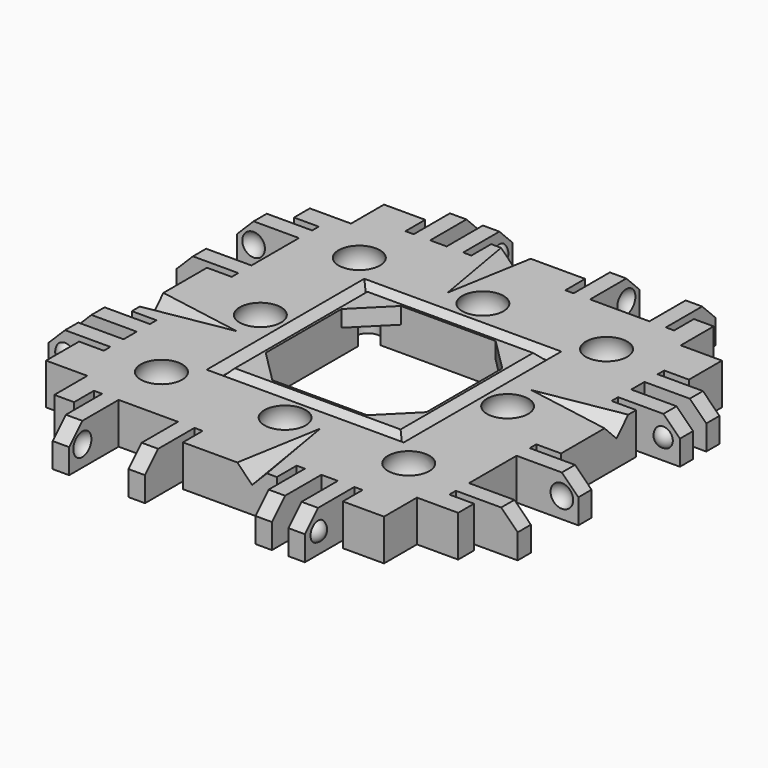
from build123d import *

# Parameters (mm, degrees)
CYLINDER037_R          = 1.5
CYLINDER037_DEPTH      = 4
CYLINDER036_R          = 1.5
CYLINDER036_DEPTH      = 4
CYLINDER035_R          = 1.5
CYLINDER035_DEPTH      = 4
CYLINDER034_R          = 1.5
CYLINDER034_DEPTH      = 4
CYLINDER032_R          = 1.7
CYLINDER032_DEPTH      = 10
CYLINDER033_R          = 1.7
CYLINDER033_DEPTH      = 10
CYLINDER031_R          = 1.7
CYLINDER031_DEPTH      = 10
CYLINDER030_R          = 1.7
CYLINDER030_DEPTH      = 10
CYLINDER029_R          = 1.7
CYLINDER029_DEPTH      = 10
BOX208_W               = 10
BOX208_H               = 15
BOX208_DEPTH           = 10
BOX208_ROLL_ANGLE      = 14.001942
BOX208_PITCH_ANGLE     = -44.136029
BOX208_PLACEMENT_ANGLE = -99.851076
BOX207_W               = 10
BOX207_H               = 15
BOX207_DEPTH           = 10
BOX207_ROLL_ANGLE      = 14.001942
BOX207_PITCH_ANGLE     = -44.136029
BOX207_PLACEMENT_ANGLE = 170.148924
BOX206_W               = 10
BOX206_H               = 15
BOX206_DEPTH           = 10
BOX206_ROLL_ANGLE      = 14.001942
BOX206_PITCH_ANGLE     = -44.136029
BOX206_PLACEMENT_ANGLE = 80.148924
BOX086_W               = 10
BOX086_H               = 15
BOX086_DEPTH           = 10
BOX086_ROLL_ANGLE      = 14.001942
BOX086_PITCH_ANGLE     = -44.136029
BOX086_PLACEMENT_ANGLE = -9.851076
BOX085_W               = 19.5
BOX085_H               = 19.5
BOX085_DEPTH           = 15
BOX076_W               = 19.5
BOX076_H               = 19.5
BOX076_DEPTH           = 15
CHAMFER008_SIZE        = 4
CYLINDER025_R          = 1.7
CYLINDER025_DEPTH      = 10
CYLINDER026_R          = 1.7
CYLINDER026_DEPTH      = 10
CYLINDER024_R          = 1.7
CYLINDER024_DEPTH      = 10
BOX169_W               = 13
BOX169_H               = 40
BOX169_DEPTH           = 10
BOX169_PLACEMENT_ANGLE = 45
BOX177_W               = 12
BOX177_H               = 44
BOX177_DEPTH           = 10
BOX176_W               = 20
BOX176_H               = 44
BOX176_DEPTH           = 10
BOX172_W               = 4
BOX172_H               = 1
BOX172_DEPTH           = 7
BOX174_W               = 4
BOX174_H               = 1
BOX174_DEPTH           = 7
BOX171_W               = 4
BOX171_H               = 2
BOX171_DEPTH           = 7
BOX173_W               = 4
BOX173_H               = 1
BOX173_DEPTH           = 7
BOX170_W               = 4
BOX170_H               = 1
BOX170_DEPTH           = 7
BOX175_W               = 4
BOX175_H               = 7.2
BOX175_DEPTH           = 7
BOX165_W               = 10
BOX165_H               = 2
BOX165_DEPTH           = 7
BOX166_W               = 10
BOX166_H               = 2
BOX166_DEPTH           = 7
BOX167_W               = 10
BOX167_H               = 2
BOX167_DEPTH           = 7
BOX168_W               = 10
BOX168_H               = 2
BOX168_DEPTH           = 7
BOX164_W               = 5
BOX164_H               = 40
BOX164_DEPTH           = 7
CUT069_PLACEMENT_ANGLE = 90
BOX191_W               = 13
BOX191_H               = 40
BOX191_DEPTH           = 10
BOX191_PLACEMENT_ANGLE = 45
BOX187_W               = 12
BOX187_H               = 44
BOX187_DEPTH           = 10
BOX180_W               = 20
BOX180_H               = 44
BOX180_DEPTH           = 10
BOX182_W               = 4
BOX182_H               = 1
BOX182_DEPTH           = 7
BOX184_W               = 4
BOX184_H               = 1
BOX184_DEPTH           = 7
BOX186_W               = 4
BOX186_H               = 2
BOX186_DEPTH           = 7
BOX185_W               = 4
BOX185_H               = 1
BOX185_DEPTH           = 7
BOX189_W               = 4
BOX189_H               = 1
BOX189_DEPTH           = 7
BOX181_W               = 4
BOX181_H               = 7.2
BOX181_DEPTH           = 7
BOX190_W               = 10
BOX190_H               = 2
BOX190_DEPTH           = 7
BOX179_W               = 10
BOX179_H               = 2
BOX179_DEPTH           = 7
BOX183_W               = 10
BOX183_H               = 2
BOX183_DEPTH           = 7
BOX188_W               = 10
BOX188_H               = 2
BOX188_DEPTH           = 7
BOX178_W               = 5
BOX178_H               = 40
BOX178_DEPTH           = 7
CUT074_PLACEMENT_ANGLE = 180
BOX193_W               = 13
BOX193_H               = 40
BOX193_DEPTH           = 10
BOX193_PLACEMENT_ANGLE = 45
BOX203_W               = 12
BOX203_H               = 44
BOX203_DEPTH           = 10
BOX194_W               = 20
BOX194_H               = 44
BOX194_DEPTH           = 10
BOX198_W               = 4
BOX198_H               = 1
BOX198_DEPTH           = 7
BOX204_W               = 4
BOX204_H               = 1
BOX204_DEPTH           = 7
BOX201_W               = 4
BOX201_H               = 2
BOX201_DEPTH           = 7
BOX200_W               = 4
BOX200_H               = 1
BOX200_DEPTH           = 7
BOX197_W               = 4
BOX197_H               = 1
BOX197_DEPTH           = 7
BOX199_W               = 4
BOX199_H               = 7.2
BOX199_DEPTH           = 7
BOX192_W               = 10
BOX192_H               = 2
BOX192_DEPTH           = 7
BOX195_W               = 10
BOX195_H               = 2
BOX195_DEPTH           = 7
BOX202_W               = 10
BOX202_H               = 2
BOX202_DEPTH           = 7
BOX205_W               = 10
BOX205_H               = 2
BOX205_DEPTH           = 7
BOX196_W               = 5
BOX196_H               = 40
BOX196_DEPTH           = 7
CUT079_PLACEMENT_ANGLE = 90
BOX006_W               = 13
BOX006_H               = 40
BOX006_DEPTH           = 10
BOX006_PLACEMENT_ANGLE = 45
BOX149_W               = 12
BOX149_H               = 44
BOX149_DEPTH           = 10
BOX013_W               = 20
BOX013_H               = 44
BOX013_DEPTH           = 10
BOX009_W               = 4
BOX009_H               = 1
BOX009_DEPTH           = 7
BOX011_W               = 4
BOX011_H               = 1
BOX011_DEPTH           = 7
BOX008_W               = 4
BOX008_H               = 2
BOX008_DEPTH           = 7
BOX010_W               = 4
BOX010_H               = 1
BOX010_DEPTH           = 7
BOX007_W               = 4
BOX007_H               = 1
BOX007_DEPTH           = 7
BOX012_W               = 4
BOX012_H               = 7.2
BOX012_DEPTH           = 7
BOX002_W               = 10
BOX002_H               = 2
BOX002_DEPTH           = 7
BOX003_W               = 10
BOX003_H               = 2
BOX003_DEPTH           = 7
BOX004_W               = 10
BOX004_H               = 2
BOX004_DEPTH           = 7
BOX005_W               = 10
BOX005_H               = 2
BOX005_DEPTH           = 7
BOX001_W               = 5
BOX001_H               = 40
BOX001_DEPTH           = 7
BOX084_W               = 20
BOX084_H               = 20
BOX084_DEPTH           = 14
BOX083_W               = 24
BOX083_H               = 24
BOX083_DEPTH           = 10
CHAMFER007_SIZE        = 0.95
BOX_W                  = 40
BOX_H                  = 40
BOX_DEPTH              = 5


with BuildPart() as cylinder037:
    # Cylinder037 → Cylinder037 (new body)
    with BuildSketch(Plane(origin=(9.75, -9.75, -3), x_dir=(1, 0, 0), z_dir=(0, 0, 1))):
        Circle(CYLINDER037_R)
    extrude(amount=CYLINDER037_DEPTH)


with BuildPart() as cylinder036:
    # Cylinder036 → Cylinder036 (new body)
    with BuildSketch(Plane(origin=(-9.75, 9.75, -3), x_dir=(1, 0, 0), z_dir=(0, 0, 1))):
        Circle(CYLINDER036_R)
    extrude(amount=CYLINDER036_DEPTH)


with BuildPart() as cylinder035:
    # Cylinder035 → Cylinder035 (new body)
    with BuildSketch(Plane(origin=(9.75, 9.75, -3), x_dir=(1, 0, 0), z_dir=(0, 0, 1))):
        Circle(CYLINDER035_R)
    extrude(amount=CYLINDER035_DEPTH)


with BuildPart() as fusion103008:
    # Cylinder034 → Cylinder034 (new body)
    with BuildSketch(Plane(origin=(-9.75, -9.75, -3), x_dir=(1, 0, 0), z_dir=(0, 0, 1))):
        Circle(CYLINDER034_R)
    extrude(amount=CYLINDER034_DEPTH)

    # Fusion103008: union Cylinder037, Cylinder036, Cylinder035
    add(cylinder037.part)
    add(cylinder036.part)
    add(cylinder035.part)


with BuildPart() as sphere087:
    # Sphere087 → Sphere087 (revolve)
    with BuildSketch(Plane(origin=(-15, 0, 1.7), x_dir=(-1, 0, 0), z_dir=(0, 1, 0))):
        with BuildLine():
            ThreePointArc((0, -2.825), (2.825, 0), (0, 2.825))
            Line((0, 2.825), (0, -2.825))
        make_face()
    revolve(axis=Axis((-15, 0, 1.7), (0, 0, 1)))


with BuildPart() as mag_hole001:
    # Sphere084 → Sphere084 (revolve)
    with BuildSketch(Plane(origin=(15, -15, 1.7), x_dir=(0, 1, 0), z_dir=(1, 0, 0))):
        with BuildLine():
            ThreePointArc((0, -2.83), (2.83, 0), (0, 2.83))
            Line((0, 2.83), (0, -2.83))
        make_face()
    revolve(axis=Axis((15, -15, 1.7), (0, 0, 1)))


with BuildPart() as sphere086:
    # Sphere086 → Sphere086 (revolve)
    with BuildSketch(Plane(origin=(0, 15, 1.7), x_dir=(0, 1, 0), z_dir=(1, 0, 0))):
        with BuildLine():
            ThreePointArc((0, -2.825), (2.825, 0), (0, 2.825))
            Line((0, 2.825), (0, -2.825))
        make_face()
    revolve(axis=Axis((0, 15, 1.7), (0, 0, 1)))


with BuildPart() as sphere088:
    # Sphere088 → Sphere088 (revolve)
    with BuildSketch(Plane(origin=(0, -15, 1.7), x_dir=(0, -1, 0), z_dir=(-1, 0, 0))):
        with BuildLine():
            ThreePointArc((0, -2.825), (2.825, 0), (0, 2.825))
            Line((0, 2.825), (0, -2.825))
        make_face()
    revolve(axis=Axis((0, -15, 1.7), (0, 0, 1)))


with BuildPart() as cylinder032:
    # Cylinder032 → Cylinder032 (new body)
    with BuildSketch(Plane(origin=(-15, 0, -5), x_dir=(-1, 0, 0), z_dir=(0, 0, 1))):
        Circle(CYLINDER032_R)
    extrude(amount=CYLINDER032_DEPTH)


with BuildPart() as cylinder033:
    # Cylinder033 → Cylinder033 (new body)
    with BuildSketch(Plane(origin=(0, -15, -5), x_dir=(0, -1, 0), z_dir=(0, 0, 1))):
        Circle(CYLINDER033_R)
    extrude(amount=CYLINDER033_DEPTH)


with BuildPart() as mag_hole002:
    # Sphere085 → Sphere085 (revolve)
    with BuildSketch(Plane(origin=(15, 15, 1.7), x_dir=(-1, 0, 0), z_dir=(0, 1, 0))):
        with BuildLine():
            ThreePointArc((0, -2.83), (2.83, 0), (0, 2.83))
            Line((0, 2.83), (0, -2.83))
        make_face()
    revolve(axis=Axis((15, 15, 1.7), (0, 0, 1)))


with BuildPart() as cylinder031:
    # Cylinder031 → Cylinder031 (new body)
    with BuildSketch(Plane(origin=(0, 15, -5), x_dir=(0, 1, 0), z_dir=(0, 0, 1))):
        Circle(CYLINDER031_R)
    extrude(amount=CYLINDER031_DEPTH)


with BuildPart() as cylinder030:
    # Cylinder030 → Cylinder030 (new body)
    with BuildSketch(Plane(origin=(15, 15, -5), x_dir=(-1, 0, 0), z_dir=(0, 0, 1))):
        Circle(CYLINDER030_R)
    extrude(amount=CYLINDER030_DEPTH)


with BuildPart() as fusion103007:
    # Cylinder029 → Cylinder029 (new body)
    with BuildSketch(Plane(origin=(15, -15, -5), x_dir=(0, 1, 0), z_dir=(0, 0, 1))):
        Circle(CYLINDER029_R)
    extrude(amount=CYLINDER029_DEPTH)

    # Fusion103007: union Sphere087, Mag Hole001, Sphere086, Sphere088, Cylinder032, Cylinder033, Mag Hole002, Cylinder031, Cylinder030
    add(sphere087.part)
    add(mag_hole001.part)
    add(sphere086.part)
    add(sphere088.part)
    add(cylinder032.part)
    add(cylinder033.part)
    add(mag_hole002.part)
    add(cylinder031.part)
    add(cylinder030.part)


with BuildPart() as cube179:
    # Box208 → Box208 (new body)
    with BuildSketch(Plane.XY):
        with Locations((5, 7.5)):
            Rectangle(BOX208_W, BOX208_H)
    extrude(amount=BOX208_DEPTH)


with BuildPart() as cube179_1:
    # Box208 roll: moved
    add(cube179.part.rotate(Axis((0, 0, 0), (1, 0, 0)), BOX208_ROLL_ANGLE))


with BuildPart() as cube179_2:
    # Box208 pitch: moved
    add(cube179_1.part.rotate(Axis((0, 0, 0), (0, 1, 0)), BOX208_PITCH_ANGLE))


with BuildPart() as cube179_3:
    # Box208 placement: moved
    add(cube179_2.part.moved(Location((-26, -4, 1))).rotate(Axis((-26, -4, 1), (0, 0, 1)), BOX208_PLACEMENT_ANGLE))


with BuildPart() as cube178:
    # Box207 → Box207 (new body)
    with BuildSketch(Plane.XY):
        with Locations((5, 7.5)):
            Rectangle(BOX207_W, BOX207_H)
    extrude(amount=BOX207_DEPTH)


with BuildPart() as cube178_1:
    # Box207 roll: moved
    add(cube178.part.rotate(Axis((0, 0, 0), (1, 0, 0)), BOX207_ROLL_ANGLE))


with BuildPart() as cube178_2:
    # Box207 pitch: moved
    add(cube178_1.part.rotate(Axis((0, 0, 0), (0, 1, 0)), BOX207_PITCH_ANGLE))


with BuildPart() as cube178_3:
    # Box207 placement: moved
    add(cube178_2.part.moved(Location((-4, 26, 1))).rotate(Axis((-4, 26, 1), (0, 0, 1)), BOX207_PLACEMENT_ANGLE))


with BuildPart() as cube177:
    # Box206 → Box206 (new body)
    with BuildSketch(Plane.XY):
        with Locations((5, 7.5)):
            Rectangle(BOX206_W, BOX206_H)
    extrude(amount=BOX206_DEPTH)


with BuildPart() as cube177_1:
    # Box206 roll: moved
    add(cube177.part.rotate(Axis((0, 0, 0), (1, 0, 0)), BOX206_ROLL_ANGLE))


with BuildPart() as cube177_2:
    # Box206 pitch: moved
    add(cube177_1.part.rotate(Axis((0, 0, 0), (0, 1, 0)), BOX206_PITCH_ANGLE))


with BuildPart() as cube177_3:
    # Box206 placement: moved
    add(cube177_2.part.moved(Location((26, 4, 1))).rotate(Axis((26, 4, 1), (0, 0, 1)), BOX206_PLACEMENT_ANGLE))


with BuildPart() as glue_dents:
    # Box086 → Box086 (new body)
    with BuildSketch(Plane.XY):
        with Locations((5, 7.5)):
            Rectangle(BOX086_W, BOX086_H)
    extrude(amount=BOX086_DEPTH)


with BuildPart() as glue_dents_1:
    # Box086 roll: moved
    add(glue_dents.part.rotate(Axis((0, 0, 0), (1, 0, 0)), BOX086_ROLL_ANGLE))


with BuildPart() as glue_dents_2:
    # Box086 pitch: moved
    add(glue_dents_1.part.rotate(Axis((0, 0, 0), (0, 1, 0)), BOX086_PITCH_ANGLE))


with BuildPart() as glue_dents_3:
    # Box086 placement: moved
    add(glue_dents_2.part.moved(Location((4, -26, 1))).rotate(Axis((4, -26, 1), (0, 0, 1)), BOX086_PLACEMENT_ANGLE))

    # Fusion078: union Cube179, Cube178, Cube177
    add(cube179_3.part)
    add(cube178_3.part)
    add(cube177_3.part)


with BuildPart() as cube069:
    # Box085 → Box085 (new body)
    with BuildSketch(Plane(origin=(-9.75, -9.75, -14), x_dir=(1, 0, 0), z_dir=(0, 0, 1))):
        with Locations((9.75, 9.75)):
            Rectangle(BOX085_W, BOX085_H)
    extrude(amount=BOX085_DEPTH)


with BuildPart() as obj1:
    # Box076 → Box076 (new body)
    with BuildSketch(Plane(origin=(-9.75, -9.75, -3), x_dir=(1, 0, 0), z_dir=(0, 0, 1))):
        with Locations((9.75, 9.75)):
            Rectangle(BOX076_W, BOX076_H)
    extrude(amount=BOX076_DEPTH)

    # Chamfer008
    chamfer008_edges = [obj1.edges().sort_by_distance(p)[0] for p in [
        (-9.75, -9.75, 4.5),
        (-9.75, 9.75, 4.5),
        (9.75, -9.75, 4.5),
        (9.75, 9.75, 4.5),
    ]]
    chamfer(chamfer008_edges, length=CHAMFER008_SIZE)


with BuildPart() as cylinder025:
    # Cylinder025 → Cylinder025 (new body)
    with BuildSketch(Plane(origin=(15, 0, -5), x_dir=(1, 0, 0), z_dir=(0, 0, 1))):
        Circle(CYLINDER025_R)
    extrude(amount=CYLINDER025_DEPTH)


with BuildPart() as cylinder026:
    # Cylinder026 → Cylinder026 (new body)
    with BuildSketch(Plane(origin=(-15, 15, -5), x_dir=(1, 0, 0), z_dir=(0, 0, 1))):
        Circle(CYLINDER026_R)
    extrude(amount=CYLINDER026_DEPTH)


with BuildPart() as screw_holes_to_remove_ball_mags:
    # Cylinder024 → Cylinder024 (new body)
    with BuildSketch(Plane(origin=(-15, -15, -5), x_dir=(1, 0, 0), z_dir=(0, 0, 1))):
        Circle(CYLINDER024_R)
    extrude(amount=CYLINDER024_DEPTH)

    # Fusion052: union Cylinder025, Cylinder026
    add(cylinder025.part)
    add(cylinder026.part)


with BuildPart() as chamfer_cube002:
    # Box169 → Box169 (new body)
    with BuildSketch(Plane.XY):
        with Locations((6.5, 20)):
            Rectangle(BOX169_W, BOX169_H)
    extrude(amount=BOX169_DEPTH)


with BuildPart() as chamfer_cube002_1:
    # Box169 placement: moved
    add(chamfer_cube002.part.moved(Location((-11.69, 0, -1.19))).rotate(Axis((-11.69, 0, -1.19), (0, -1, 0)), BOX169_PLACEMENT_ANGLE))


with BuildPart() as re_level_edge_clip_block005:
    # Box177 → Box177 (new body)
    with BuildSketch(Plane(origin=(-21.5, -2, -7), x_dir=(1, 0, 0), z_dir=(0, 0, 1))):
        with Locations((6, 22)):
            Rectangle(BOX177_W, BOX177_H)
    extrude(amount=BOX177_DEPTH)


with BuildPart() as re_level_edge_clip_block004:
    # Box176 → Box176 (new body)
    with BuildSketch(Plane(origin=(-19, -2, 3), x_dir=(1, 0, 0), z_dir=(0, 0, 1))):
        with Locations((10, 22)):
            Rectangle(BOX176_W, BOX176_H)
    extrude(amount=BOX176_DEPTH)


with BuildPart() as cube151:
    # Box172 → Box172 (new body)
    with BuildSketch(Plane(origin=(-6, 12, -2), x_dir=(1, 0, 0), z_dir=(0, 0, 1))):
        with Locations((2, 0.5)):
            Rectangle(BOX172_W, BOX172_H)
    extrude(amount=BOX172_DEPTH)


with BuildPart() as cube153:
    # Box174 → Box174 (new body)
    with BuildSketch(Plane(origin=(-6, 36.6, -2), x_dir=(1, 0, 0), z_dir=(0, 0, 1))):
        with Locations((2, 0.5)):
            Rectangle(BOX174_W, BOX174_H)
    extrude(amount=BOX174_DEPTH)


with BuildPart() as cube150:
    # Box171 → Box171 (new body)
    with BuildSketch(Plane(origin=(-6, 8, -2), x_dir=(1, 0, 0), z_dir=(0, 0, 1))):
        with Locations((2, 1)):
            Rectangle(BOX171_W, BOX171_H)
    extrude(amount=BOX171_DEPTH)


with BuildPart() as cube152:
    # Box173 → Box173 (new body)
    with BuildSketch(Plane(origin=(-6, 24.4, -2), x_dir=(1, 0, 0), z_dir=(0, 0, 1))):
        with Locations((2, 0.5)):
            Rectangle(BOX173_W, BOX173_H)
    extrude(amount=BOX173_DEPTH)


with BuildPart() as cube149:
    # Box170 → Box170 (new body)
    with BuildSketch(Plane(origin=(-6, 5, -2), x_dir=(1, 0, 0), z_dir=(0, 0, 1))):
        with Locations((2, 0.5)):
            Rectangle(BOX170_W, BOX170_H)
    extrude(amount=BOX170_DEPTH)


with BuildPart() as extra_holes_for_clips002:
    # Box175 → Box175 (new body)
    with BuildSketch(Plane(origin=(-6, 27.4, -2), x_dir=(1, 0, 0), z_dir=(0, 0, 1))):
        with Locations((2, 3.6)):
            Rectangle(BOX175_W, BOX175_H)
    extrude(amount=BOX175_DEPTH)

    # Fusion061: union Cube151, Cube153, Cube150, Cube152, Cube149
    add(cube151.part)
    add(cube153.part)
    add(cube150.part)
    add(cube152.part)
    add(cube149.part)


with BuildPart() as sphere058:
    # Sphere058 → Sphere058 (revolve)
    with BuildSketch(Plane(origin=(-7.5, 34, 0.5), x_dir=(1, 0, 0), z_dir=(0, -1, 0))):
        with BuildLine():
            ThreePointArc((0, -1.5), (1.5, 0), (0, 1.5))
            Line((0, 1.5), (0, -1.5))
        make_face()
    revolve(axis=Axis((-7.5, 34, 0.5), (0, 0, 1)))


with BuildPart() as holes002:
    # Sphere057 → Sphere057 (revolve)
    with BuildSketch(Plane(origin=(-7.5, 28, 0.5), x_dir=(1, 0, 0), z_dir=(0, -1, 0))):
        with BuildLine():
            ThreePointArc((0, -1.5), (1.5, 0), (0, 1.5))
            Line((0, 1.5), (0, -1.5))
        make_face()
    revolve(axis=Axis((-7.5, 28, 0.5), (0, 0, 1)))

    # Fusion063: union Sphere058
    add(sphere058.part)


with BuildPart() as cube145:
    # Box165 → Box165 (new body)
    with BuildSketch(Plane(origin=(-15, 6, -2), x_dir=(1, 0, 0), z_dir=(0, 0, 1))):
        with Locations((5, 1)):
            Rectangle(BOX165_W, BOX165_H)
    extrude(amount=BOX165_DEPTH)


with BuildPart() as cube146:
    # Box166 → Box166 (new body)
    with BuildSketch(Plane(origin=(-15, 10, -2), x_dir=(1, 0, 0), z_dir=(0, 0, 1))):
        with Locations((5, 1)):
            Rectangle(BOX166_W, BOX166_H)
    extrude(amount=BOX166_DEPTH)


with BuildPart() as cube147:
    # Box167 → Box167 (new body)
    with BuildSketch(Plane(origin=(-15, 25.4, -2), x_dir=(1, 0, 0), z_dir=(0, 0, 1))):
        with Locations((5, 1)):
            Rectangle(BOX167_W, BOX167_H)
    extrude(amount=BOX167_DEPTH)


with BuildPart() as cube148:
    # Box168 → Box168 (new body)
    with BuildSketch(Plane(origin=(-15, 34.6, -2), x_dir=(1, 0, 0), z_dir=(0, 0, 1))):
        with Locations((5, 1)):
            Rectangle(BOX168_W, BOX168_H)
    extrude(amount=BOX168_DEPTH)


with BuildPart() as fusion064:
    # Box164 → Box164 (new body)
    with BuildSketch(Plane(origin=(-5, 0, -2), x_dir=(1, 0, 0), z_dir=(0, 0, 1))):
        with Locations((2.5, 20)):
            Rectangle(BOX164_W, BOX164_H)
    extrude(amount=BOX164_DEPTH)

    # Fusion064: union Cube145, Cube146, Cube147, Cube148
    add(cube145.part)
    add(cube146.part)
    add(cube147.part)
    add(cube148.part)


with BuildPart() as sphere056:
    # Sphere056 → Sphere056 (revolve)
    with BuildSketch(Plane(origin=(-7.5, 11.5, 0.5), x_dir=(1, 0, 0), z_dir=(0, -1, 0))):
        with BuildLine():
            ThreePointArc((0, -1.25), (1.25, 0), (0, 1.25))
            Line((0, 1.25), (0, -1.25))
        make_face()
    revolve(axis=Axis((-7.5, 11.5, 0.5), (0, 0, 1)))


with BuildPart() as edge_clips001:
    # Sphere055 → Sphere055 (revolve)
    with BuildSketch(Plane(origin=(-7.5, 6.5, 0.5), x_dir=(1, 0, 0), z_dir=(0, -1, 0))):
        with BuildLine():
            ThreePointArc((0, -1.25), (1.25, 0), (0, 1.25))
            Line((0, 1.25), (0, -1.25))
        make_face()
    revolve(axis=Axis((-7.5, 6.5, 0.5), (0, 0, 1)))

    # Fusion062: union Sphere056
    add(sphere056.part)

    # Fusion065: union Fusion064
    add(fusion064.part)

    # Cut065: cut Holes002
    add(holes002.part, mode=Mode.SUBTRACT)

    # Cut066: cut Extra Holes for Clips002
    add(extra_holes_for_clips002.part, mode=Mode.SUBTRACT)

    # Cut067: cut Re-level Edge Clip Block004
    add(re_level_edge_clip_block004.part, mode=Mode.SUBTRACT)

    # Cut068: cut Re-level Edge Clip Block005
    add(re_level_edge_clip_block005.part, mode=Mode.SUBTRACT)

    # Cut069: cut Chamfer Cube002
    add(chamfer_cube002_1.part, mode=Mode.SUBTRACT)


with BuildPart() as edge_clips001_1:
    # Cut069 placement: moved
    add(edge_clips001.part.moved(Location((20, -20, 0))).rotate(Axis((20, -20, 0), (0, 0, 1)), CUT069_PLACEMENT_ANGLE))


with BuildPart() as chamfer_cube003:
    # Box191 → Box191 (new body)
    with BuildSketch(Plane.XY):
        with Locations((6.5, 20)):
            Rectangle(BOX191_W, BOX191_H)
    extrude(amount=BOX191_DEPTH)


with BuildPart() as chamfer_cube003_1:
    # Box191 placement: moved
    add(chamfer_cube003.part.moved(Location((-11.69, 0, -1.19))).rotate(Axis((-11.69, 0, -1.19), (0, -1, 0)), BOX191_PLACEMENT_ANGLE))


with BuildPart() as re_level_edge_clip_block007:
    # Box187 → Box187 (new body)
    with BuildSketch(Plane(origin=(-21.5, -2, -7), x_dir=(1, 0, 0), z_dir=(0, 0, 1))):
        with Locations((6, 22)):
            Rectangle(BOX187_W, BOX187_H)
    extrude(amount=BOX187_DEPTH)


with BuildPart() as re_level_edge_clip_block006:
    # Box180 → Box180 (new body)
    with BuildSketch(Plane(origin=(-19, -2, 3), x_dir=(1, 0, 0), z_dir=(0, 0, 1))):
        with Locations((10, 22)):
            Rectangle(BOX180_W, BOX180_H)
    extrude(amount=BOX180_DEPTH)


with BuildPart() as cube158:
    # Box182 → Box182 (new body)
    with BuildSketch(Plane(origin=(-6, 12, -2), x_dir=(1, 0, 0), z_dir=(0, 0, 1))):
        with Locations((2, 0.5)):
            Rectangle(BOX182_W, BOX182_H)
    extrude(amount=BOX182_DEPTH)


with BuildPart() as cube160:
    # Box184 → Box184 (new body)
    with BuildSketch(Plane(origin=(-6, 36.6, -2), x_dir=(1, 0, 0), z_dir=(0, 0, 1))):
        with Locations((2, 0.5)):
            Rectangle(BOX184_W, BOX184_H)
    extrude(amount=BOX184_DEPTH)


with BuildPart() as cube162:
    # Box186 → Box186 (new body)
    with BuildSketch(Plane(origin=(-6, 8, -2), x_dir=(1, 0, 0), z_dir=(0, 0, 1))):
        with Locations((2, 1)):
            Rectangle(BOX186_W, BOX186_H)
    extrude(amount=BOX186_DEPTH)


with BuildPart() as cube161:
    # Box185 → Box185 (new body)
    with BuildSketch(Plane(origin=(-6, 24.4, -2), x_dir=(1, 0, 0), z_dir=(0, 0, 1))):
        with Locations((2, 0.5)):
            Rectangle(BOX185_W, BOX185_H)
    extrude(amount=BOX185_DEPTH)


with BuildPart() as cube164:
    # Box189 → Box189 (new body)
    with BuildSketch(Plane(origin=(-6, 5, -2), x_dir=(1, 0, 0), z_dir=(0, 0, 1))):
        with Locations((2, 0.5)):
            Rectangle(BOX189_W, BOX189_H)
    extrude(amount=BOX189_DEPTH)


with BuildPart() as extra_holes_for_clips003:
    # Box181 → Box181 (new body)
    with BuildSketch(Plane(origin=(-6, 27.4, -2), x_dir=(1, 0, 0), z_dir=(0, 0, 1))):
        with Locations((2, 3.6)):
            Rectangle(BOX181_W, BOX181_H)
    extrude(amount=BOX181_DEPTH)

    # Fusion067: union Cube158, Cube160, Cube162, Cube161, Cube164
    add(cube158.part)
    add(cube160.part)
    add(cube162.part)
    add(cube161.part)
    add(cube164.part)


with BuildPart() as sphere060:
    # Sphere060 → Sphere060 (revolve)
    with BuildSketch(Plane(origin=(-7.5, 34, 0.5), x_dir=(1, 0, 0), z_dir=(0, -1, 0))):
        with BuildLine():
            ThreePointArc((0, -1.5), (1.5, 0), (0, 1.5))
            Line((0, 1.5), (0, -1.5))
        make_face()
    revolve(axis=Axis((-7.5, 34, 0.5), (0, 0, 1)))


with BuildPart() as holes003:
    # Sphere062 → Sphere062 (revolve)
    with BuildSketch(Plane(origin=(-7.5, 28, 0.5), x_dir=(1, 0, 0), z_dir=(0, -1, 0))):
        with BuildLine():
            ThreePointArc((0, -1.5), (1.5, 0), (0, 1.5))
            Line((0, 1.5), (0, -1.5))
        make_face()
    revolve(axis=Axis((-7.5, 28, 0.5), (0, 0, 1)))

    # Fusion066: union Sphere060
    add(sphere060.part)


with BuildPart() as cube165:
    # Box190 → Box190 (new body)
    with BuildSketch(Plane(origin=(-15, 6, -2), x_dir=(1, 0, 0), z_dir=(0, 0, 1))):
        with Locations((5, 1)):
            Rectangle(BOX190_W, BOX190_H)
    extrude(amount=BOX190_DEPTH)


with BuildPart() as cube156:
    # Box179 → Box179 (new body)
    with BuildSketch(Plane(origin=(-15, 10, -2), x_dir=(1, 0, 0), z_dir=(0, 0, 1))):
        with Locations((5, 1)):
            Rectangle(BOX179_W, BOX179_H)
    extrude(amount=BOX179_DEPTH)


with BuildPart() as cube159:
    # Box183 → Box183 (new body)
    with BuildSketch(Plane(origin=(-15, 25.4, -2), x_dir=(1, 0, 0), z_dir=(0, 0, 1))):
        with Locations((5, 1)):
            Rectangle(BOX183_W, BOX183_H)
    extrude(amount=BOX183_DEPTH)


with BuildPart() as cube163:
    # Box188 → Box188 (new body)
    with BuildSketch(Plane(origin=(-15, 34.6, -2), x_dir=(1, 0, 0), z_dir=(0, 0, 1))):
        with Locations((5, 1)):
            Rectangle(BOX188_W, BOX188_H)
    extrude(amount=BOX188_DEPTH)


with BuildPart() as fusion069:
    # Box178 → Box178 (new body)
    with BuildSketch(Plane(origin=(-5, 0, -2), x_dir=(1, 0, 0), z_dir=(0, 0, 1))):
        with Locations((2.5, 20)):
            Rectangle(BOX178_W, BOX178_H)
    extrude(amount=BOX178_DEPTH)

    # Fusion069: union Cube165, Cube156, Cube159, Cube163
    add(cube165.part)
    add(cube156.part)
    add(cube159.part)
    add(cube163.part)


with BuildPart() as sphere061:
    # Sphere061 → Sphere061 (revolve)
    with BuildSketch(Plane(origin=(-7.5, 11.5, 0.5), x_dir=(1, 0, 0), z_dir=(0, -1, 0))):
        with BuildLine():
            ThreePointArc((0, -1.25), (1.25, 0), (0, 1.25))
            Line((0, 1.25), (0, -1.25))
        make_face()
    revolve(axis=Axis((-7.5, 11.5, 0.5), (0, 0, 1)))


with BuildPart() as edge_clips002:
    # Sphere059 → Sphere059 (revolve)
    with BuildSketch(Plane(origin=(-7.5, 6.5, 0.5), x_dir=(1, 0, 0), z_dir=(0, -1, 0))):
        with BuildLine():
            ThreePointArc((0, -1.25), (1.25, 0), (0, 1.25))
            Line((0, 1.25), (0, -1.25))
        make_face()
    revolve(axis=Axis((-7.5, 6.5, 0.5), (0, 0, 1)))

    # Fusion070: union Sphere061
    add(sphere061.part)

    # Fusion068: union Fusion069
    add(fusion069.part)

    # Cut073: cut Holes003
    add(holes003.part, mode=Mode.SUBTRACT)

    # Cut070: cut Extra Holes for Clips003
    add(extra_holes_for_clips003.part, mode=Mode.SUBTRACT)

    # Cut071: cut Re-level Edge Clip Block006
    add(re_level_edge_clip_block006.part, mode=Mode.SUBTRACT)

    # Cut072: cut Re-level Edge Clip Block007
    add(re_level_edge_clip_block007.part, mode=Mode.SUBTRACT)

    # Cut074: cut Chamfer Cube003
    add(chamfer_cube003_1.part, mode=Mode.SUBTRACT)


with BuildPart() as edge_clips002_1:
    # Cut074 placement: moved
    add(edge_clips002.part.moved(Location((20, 20, 0))).rotate(Axis((20, 20, 0), (0, 0, 1)), CUT074_PLACEMENT_ANGLE))


with BuildPart() as chamfer_cube004:
    # Box193 → Box193 (new body)
    with BuildSketch(Plane.XY):
        with Locations((6.5, 20)):
            Rectangle(BOX193_W, BOX193_H)
    extrude(amount=BOX193_DEPTH)


with BuildPart() as chamfer_cube004_1:
    # Box193 placement: moved
    add(chamfer_cube004.part.moved(Location((-11.69, 0, -1.19))).rotate(Axis((-11.69, 0, -1.19), (0, -1, 0)), BOX193_PLACEMENT_ANGLE))


with BuildPart() as re_level_edge_clip_block009:
    # Box203 → Box203 (new body)
    with BuildSketch(Plane(origin=(-21.5, -2, -7), x_dir=(1, 0, 0), z_dir=(0, 0, 1))):
        with Locations((6, 22)):
            Rectangle(BOX203_W, BOX203_H)
    extrude(amount=BOX203_DEPTH)


with BuildPart() as re_level_edge_clip_block008:
    # Box194 → Box194 (new body)
    with BuildSketch(Plane(origin=(-19, -2, 3), x_dir=(1, 0, 0), z_dir=(0, 0, 1))):
        with Locations((10, 22)):
            Rectangle(BOX194_W, BOX194_H)
    extrude(amount=BOX194_DEPTH)


with BuildPart() as cube170:
    # Box198 → Box198 (new body)
    with BuildSketch(Plane(origin=(-6, 12, -2), x_dir=(1, 0, 0), z_dir=(0, 0, 1))):
        with Locations((2, 0.5)):
            Rectangle(BOX198_W, BOX198_H)
    extrude(amount=BOX198_DEPTH)


with BuildPart() as cube175:
    # Box204 → Box204 (new body)
    with BuildSketch(Plane(origin=(-6, 36.6, -2), x_dir=(1, 0, 0), z_dir=(0, 0, 1))):
        with Locations((2, 0.5)):
            Rectangle(BOX204_W, BOX204_H)
    extrude(amount=BOX204_DEPTH)


with BuildPart() as cube173:
    # Box201 → Box201 (new body)
    with BuildSketch(Plane(origin=(-6, 8, -2), x_dir=(1, 0, 0), z_dir=(0, 0, 1))):
        with Locations((2, 1)):
            Rectangle(BOX201_W, BOX201_H)
    extrude(amount=BOX201_DEPTH)


with BuildPart() as cube172:
    # Box200 → Box200 (new body)
    with BuildSketch(Plane(origin=(-6, 24.4, -2), x_dir=(1, 0, 0), z_dir=(0, 0, 1))):
        with Locations((2, 0.5)):
            Rectangle(BOX200_W, BOX200_H)
    extrude(amount=BOX200_DEPTH)


with BuildPart() as cube169:
    # Box197 → Box197 (new body)
    with BuildSketch(Plane(origin=(-6, 5, -2), x_dir=(1, 0, 0), z_dir=(0, 0, 1))):
        with Locations((2, 0.5)):
            Rectangle(BOX197_W, BOX197_H)
    extrude(amount=BOX197_DEPTH)


with BuildPart() as extra_holes_for_clips004:
    # Box199 → Box199 (new body)
    with BuildSketch(Plane(origin=(-6, 27.4, -2), x_dir=(1, 0, 0), z_dir=(0, 0, 1))):
        with Locations((2, 3.6)):
            Rectangle(BOX199_W, BOX199_H)
    extrude(amount=BOX199_DEPTH)

    # Fusion074: union Cube170, Cube175, Cube173, Cube172, Cube169
    add(cube170.part)
    add(cube175.part)
    add(cube173.part)
    add(cube172.part)
    add(cube169.part)


with BuildPart() as sphere066:
    # Sphere066 → Sphere066 (revolve)
    with BuildSketch(Plane(origin=(-7.5, 34, 0.5), x_dir=(1, 0, 0), z_dir=(0, -1, 0))):
        with BuildLine():
            ThreePointArc((0, -1.5), (1.5, 0), (0, 1.5))
            Line((0, 1.5), (0, -1.5))
        make_face()
    revolve(axis=Axis((-7.5, 34, 0.5), (0, 0, 1)))


with BuildPart() as holes004:
    # Sphere063 → Sphere063 (revolve)
    with BuildSketch(Plane(origin=(-7.5, 28, 0.5), x_dir=(1, 0, 0), z_dir=(0, -1, 0))):
        with BuildLine():
            ThreePointArc((0, -1.5), (1.5, 0), (0, 1.5))
            Line((0, 1.5), (0, -1.5))
        make_face()
    revolve(axis=Axis((-7.5, 28, 0.5), (0, 0, 1)))

    # Fusion071: union Sphere066
    add(sphere066.part)


with BuildPart() as cube166:
    # Box192 → Box192 (new body)
    with BuildSketch(Plane(origin=(-15, 6, -2), x_dir=(1, 0, 0), z_dir=(0, 0, 1))):
        with Locations((5, 1)):
            Rectangle(BOX192_W, BOX192_H)
    extrude(amount=BOX192_DEPTH)


with BuildPart() as cube167:
    # Box195 → Box195 (new body)
    with BuildSketch(Plane(origin=(-15, 10, -2), x_dir=(1, 0, 0), z_dir=(0, 0, 1))):
        with Locations((5, 1)):
            Rectangle(BOX195_W, BOX195_H)
    extrude(amount=BOX195_DEPTH)


with BuildPart() as cube174:
    # Box202 → Box202 (new body)
    with BuildSketch(Plane(origin=(-15, 25.4, -2), x_dir=(1, 0, 0), z_dir=(0, 0, 1))):
        with Locations((5, 1)):
            Rectangle(BOX202_W, BOX202_H)
    extrude(amount=BOX202_DEPTH)


with BuildPart() as cube176:
    # Box205 → Box205 (new body)
    with BuildSketch(Plane(origin=(-15, 34.6, -2), x_dir=(1, 0, 0), z_dir=(0, 0, 1))):
        with Locations((5, 1)):
            Rectangle(BOX205_W, BOX205_H)
    extrude(amount=BOX205_DEPTH)


with BuildPart() as fusion072:
    # Box196 → Box196 (new body)
    with BuildSketch(Plane(origin=(-5, 0, -2), x_dir=(1, 0, 0), z_dir=(0, 0, 1))):
        with Locations((2.5, 20)):
            Rectangle(BOX196_W, BOX196_H)
    extrude(amount=BOX196_DEPTH)

    # Fusion072: union Cube166, Cube167, Cube174, Cube176
    add(cube166.part)
    add(cube167.part)
    add(cube174.part)
    add(cube176.part)


with BuildPart() as sphere064:
    # Sphere064 → Sphere064 (revolve)
    with BuildSketch(Plane(origin=(-7.5, 11.5, 0.5), x_dir=(1, 0, 0), z_dir=(0, -1, 0))):
        with BuildLine():
            ThreePointArc((0, -1.25), (1.25, 0), (0, 1.25))
            Line((0, 1.25), (0, -1.25))
        make_face()
    revolve(axis=Axis((-7.5, 11.5, 0.5), (0, 0, 1)))


with BuildPart() as edge_clips003:
    # Sphere065 → Sphere065 (revolve)
    with BuildSketch(Plane(origin=(-7.5, 6.5, 0.5), x_dir=(1, 0, 0), z_dir=(0, -1, 0))):
        with BuildLine():
            ThreePointArc((0, -1.25), (1.25, 0), (0, 1.25))
            Line((0, 1.25), (0, -1.25))
        make_face()
    revolve(axis=Axis((-7.5, 6.5, 0.5), (0, 0, 1)))

    # Fusion073: union Sphere064
    add(sphere064.part)

    # Fusion075: union Fusion072
    add(fusion072.part)

    # Cut075: cut Holes004
    add(holes004.part, mode=Mode.SUBTRACT)

    # Cut076: cut Extra Holes for Clips004
    add(extra_holes_for_clips004.part, mode=Mode.SUBTRACT)

    # Cut078: cut Re-level Edge Clip Block008
    add(re_level_edge_clip_block008.part, mode=Mode.SUBTRACT)

    # Cut077: cut Re-level Edge Clip Block009
    add(re_level_edge_clip_block009.part, mode=Mode.SUBTRACT)

    # Cut079: cut Chamfer Cube004
    add(chamfer_cube004_1.part, mode=Mode.SUBTRACT)


with BuildPart() as edge_clips003_1:
    # Cut079 placement: moved
    add(edge_clips003.part.moved(Location((-20, 20, 0))).rotate(Axis((-20, 20, 0), (0, 0, -1)), CUT079_PLACEMENT_ANGLE))


with BuildPart() as chamfer_cube:
    # Box006 → Box006 (new body)
    with BuildSketch(Plane.XY):
        with Locations((6.5, 20)):
            Rectangle(BOX006_W, BOX006_H)
    extrude(amount=BOX006_DEPTH)


with BuildPart() as chamfer_cube_1:
    # Box006 placement: moved
    add(chamfer_cube.part.moved(Location((-11.69, 0, -1.19))).rotate(Axis((-11.69, 0, -1.19), (0, -1, 0)), BOX006_PLACEMENT_ANGLE))


with BuildPart() as re_level_edge_clip_block001:
    # Box149 → Box149 (new body)
    with BuildSketch(Plane(origin=(-21.5, -2, -7), x_dir=(1, 0, 0), z_dir=(0, 0, 1))):
        with Locations((6, 22)):
            Rectangle(BOX149_W, BOX149_H)
    extrude(amount=BOX149_DEPTH)


with BuildPart() as re_level_edge_clip_block:
    # Box013 → Box013 (new body)
    with BuildSketch(Plane(origin=(-19, -2, 3), x_dir=(1, 0, 0), z_dir=(0, 0, 1))):
        with Locations((10, 22)):
            Rectangle(BOX013_W, BOX013_H)
    extrude(amount=BOX013_DEPTH)


with BuildPart() as cube009:
    # Box009 → Box009 (new body)
    with BuildSketch(Plane(origin=(-6, 12, -2), x_dir=(1, 0, 0), z_dir=(0, 0, 1))):
        with Locations((2, 0.5)):
            Rectangle(BOX009_W, BOX009_H)
    extrude(amount=BOX009_DEPTH)


with BuildPart() as cube011:
    # Box011 → Box011 (new body)
    with BuildSketch(Plane(origin=(-6, 36.6, -2), x_dir=(1, 0, 0), z_dir=(0, 0, 1))):
        with Locations((2, 0.5)):
            Rectangle(BOX011_W, BOX011_H)
    extrude(amount=BOX011_DEPTH)


with BuildPart() as cube008:
    # Box008 → Box008 (new body)
    with BuildSketch(Plane(origin=(-6, 8, -2), x_dir=(1, 0, 0), z_dir=(0, 0, 1))):
        with Locations((2, 1)):
            Rectangle(BOX008_W, BOX008_H)
    extrude(amount=BOX008_DEPTH)


with BuildPart() as cube010:
    # Box010 → Box010 (new body)
    with BuildSketch(Plane(origin=(-6, 24.4, -2), x_dir=(1, 0, 0), z_dir=(0, 0, 1))):
        with Locations((2, 0.5)):
            Rectangle(BOX010_W, BOX010_H)
    extrude(amount=BOX010_DEPTH)


with BuildPart() as cube007:
    # Box007 → Box007 (new body)
    with BuildSketch(Plane(origin=(-6, 5, -2), x_dir=(1, 0, 0), z_dir=(0, 0, 1))):
        with Locations((2, 0.5)):
            Rectangle(BOX007_W, BOX007_H)
    extrude(amount=BOX007_DEPTH)


with BuildPart() as extra_holes_for_clips:
    # Box012 → Box012 (new body)
    with BuildSketch(Plane(origin=(-6, 27.4, -2), x_dir=(1, 0, 0), z_dir=(0, 0, 1))):
        with Locations((2, 3.6)):
            Rectangle(BOX012_W, BOX012_H)
    extrude(amount=BOX012_DEPTH)

    # Fusion003: union Cube009, Cube011, Cube008, Cube010, Cube007
    add(cube009.part)
    add(cube011.part)
    add(cube008.part)
    add(cube010.part)
    add(cube007.part)


with BuildPart() as sphere011:
    # Sphere011 → Sphere011 (revolve)
    with BuildSketch(Plane(origin=(-7.5, 34, 0.5), x_dir=(1, 0, 0), z_dir=(0, -1, 0))):
        with BuildLine():
            ThreePointArc((0, -1.5), (1.5, 0), (0, 1.5))
            Line((0, 1.5), (0, -1.5))
        make_face()
    revolve(axis=Axis((-7.5, 34, 0.5), (0, 0, 1)))


with BuildPart() as holes:
    # Sphere010 → Sphere010 (revolve)
    with BuildSketch(Plane(origin=(-7.5, 28, 0.5), x_dir=(1, 0, 0), z_dir=(0, -1, 0))):
        with BuildLine():
            ThreePointArc((0, -1.5), (1.5, 0), (0, 1.5))
            Line((0, 1.5), (0, -1.5))
        make_face()
    revolve(axis=Axis((-7.5, 28, 0.5), (0, 0, 1)))

    # Fusion053: union Sphere011
    add(sphere011.part)


with BuildPart() as cube002:
    # Box002 → Box002 (new body)
    with BuildSketch(Plane(origin=(-15, 6, -2), x_dir=(1, 0, 0), z_dir=(0, 0, 1))):
        with Locations((5, 1)):
            Rectangle(BOX002_W, BOX002_H)
    extrude(amount=BOX002_DEPTH)


with BuildPart() as cube003:
    # Box003 → Box003 (new body)
    with BuildSketch(Plane(origin=(-15, 10, -2), x_dir=(1, 0, 0), z_dir=(0, 0, 1))):
        with Locations((5, 1)):
            Rectangle(BOX003_W, BOX003_H)
    extrude(amount=BOX003_DEPTH)


with BuildPart() as cube004:
    # Box004 → Box004 (new body)
    with BuildSketch(Plane(origin=(-15, 25.4, -2), x_dir=(1, 0, 0), z_dir=(0, 0, 1))):
        with Locations((5, 1)):
            Rectangle(BOX004_W, BOX004_H)
    extrude(amount=BOX004_DEPTH)


with BuildPart() as cube005:
    # Box005 → Box005 (new body)
    with BuildSketch(Plane(origin=(-15, 34.6, -2), x_dir=(1, 0, 0), z_dir=(0, 0, 1))):
        with Locations((5, 1)):
            Rectangle(BOX005_W, BOX005_H)
    extrude(amount=BOX005_DEPTH)


with BuildPart() as fusion054:
    # Box001 → Box001 (new body)
    with BuildSketch(Plane(origin=(-5, 0, -2), x_dir=(1, 0, 0), z_dir=(0, 0, 1))):
        with Locations((2.5, 20)):
            Rectangle(BOX001_W, BOX001_H)
    extrude(amount=BOX001_DEPTH)

    # Fusion054: union Cube002, Cube003, Cube004, Cube005
    add(cube002.part)
    add(cube003.part)
    add(cube004.part)
    add(cube005.part)


with BuildPart() as sphere009:
    # Sphere009 → Sphere009 (revolve)
    with BuildSketch(Plane(origin=(-7.5, 11.5, 0.5), x_dir=(1, 0, 0), z_dir=(0, -1, 0))):
        with BuildLine():
            ThreePointArc((0, -1.25), (1.25, 0), (0, 1.25))
            Line((0, 1.25), (0, -1.25))
        make_face()
    revolve(axis=Axis((-7.5, 11.5, 0.5), (0, 0, 1)))


with BuildPart() as edge_clips_fusion:
    # Sphere008 → Sphere008 (revolve)
    with BuildSketch(Plane(origin=(-7.5, 6.5, 0.5), x_dir=(1, 0, 0), z_dir=(0, -1, 0))):
        with BuildLine():
            ThreePointArc((0, -1.25), (1.25, 0), (0, 1.25))
            Line((0, 1.25), (0, -1.25))
        make_face()
    revolve(axis=Axis((-7.5, 6.5, 0.5), (0, 0, 1)))

    # Fusion: union Sphere009
    add(sphere009.part)

    # Fusion055: union Fusion054
    add(fusion054.part)

    # Cut: cut Holes
    add(holes.part, mode=Mode.SUBTRACT)

    # Cut056: cut Extra Holes for Clips
    add(extra_holes_for_clips.part, mode=Mode.SUBTRACT)

    # Cut057: cut Re-level Edge Clip Block
    add(re_level_edge_clip_block.part, mode=Mode.SUBTRACT)

    # Cut058: cut Re-level Edge Clip Block001
    add(re_level_edge_clip_block001.part, mode=Mode.SUBTRACT)

    # Cut059: cut Chamfer Cube
    add(chamfer_cube_1.part, mode=Mode.SUBTRACT)


with BuildPart() as edge_clips_fusion_1:
    # Cut059 placement: moved
    add(edge_clips_fusion.part.moved(Location((-20, -20, 0))))

    # Fusion076: union Edge Clips001, Edge Clips002, Edge Clips003
    add(edge_clips001_1.part)
    add(edge_clips002_1.part)
    add(edge_clips003_1.part)


with BuildPart() as cube068:
    # Box084 → Box084 (new body)
    with BuildSketch(Plane(origin=(-10, -10, 0), x_dir=(1, 0, 0), z_dir=(0, 0, 1))):
        with Locations((10, 10)):
            Rectangle(BOX084_W, BOX084_H)
    extrude(amount=BOX084_DEPTH)


with BuildPart() as glue_channel_ball:
    # Box083 → Box083 (new body)
    with BuildSketch(Plane(origin=(-12, -12, 2.1), x_dir=(1, 0, 0), z_dir=(0, 0, 1))):
        with Locations((12, 12)):
            Rectangle(BOX083_W, BOX083_H)
    extrude(amount=BOX083_DEPTH)

    # Cut020: cut Cube068
    add(cube068.part, mode=Mode.SUBTRACT)

    # Chamfer007
    chamfer007_edges = [glue_channel_ball.edges().sort_by_distance(p)[0] for p in [
        (-12, 0, 2.1),
        (0, -12, 2.1),
        (0, 12, 2.1),
        (12, 0, 2.1),
        (0, -10, 2.1),
        (10, 0, 2.1),
        (0, 10, 2.1),
        (-10, 0, 2.1),
    ]]
    chamfer(chamfer007_edges, length=CHAMFER007_SIZE)


with BuildPart() as sphere005:
    # Sphere005 → Sphere005 (revolve)
    with BuildSketch(Plane(origin=(15, 0, 1.7), x_dir=(1, 0, 0), z_dir=(0, -1, 0))):
        with BuildLine():
            ThreePointArc((0, -2.825), (2.825, 0), (0, 2.825))
            Line((0, 2.825), (0, -2.825))
        make_face()
    revolve(axis=Axis((15, 0, 1.7), (0, 0, 1)))


with BuildPart() as sphere003:
    # Sphere003 → Sphere003 (revolve)
    with BuildSketch(Plane(origin=(-15, 15, 1.7), x_dir=(1, 0, 0), z_dir=(0, -1, 0))):
        with BuildLine():
            ThreePointArc((0, -2.83), (2.83, 0), (0, 2.83))
            Line((0, 2.83), (0, -2.83))
        make_face()
    revolve(axis=Axis((-15, 15, 1.7), (0, 0, 1)))


with BuildPart() as ball_holes:
    # Sphere → Sphere (revolve)
    with BuildSketch(Plane(origin=(-15, -15, 1.7), x_dir=(1, 0, 0), z_dir=(0, -1, 0))):
        with BuildLine():
            ThreePointArc((0, -2.83), (2.83, 0), (0, 2.83))
            Line((0, 2.83), (0, -2.83))
        make_face()
    revolve(axis=Axis((-15, -15, 1.7), (0, 0, 1)))

    # Fusion004: union Sphere005, Sphere003
    add(sphere005.part)
    add(sphere003.part)


with BuildPart() as cut112:
    # Box → Box (new body)
    with BuildSketch(Plane(origin=(-20, -20, -2), x_dir=(1, 0, 0), z_dir=(0, 0, 1))):
        with Locations((20, 20)):
            Rectangle(BOX_W, BOX_H)
    extrude(amount=BOX_DEPTH)

    # Cut003: cut Ball Holes
    add(ball_holes.part, mode=Mode.SUBTRACT)

    # Cut047: cut Glue Channel Ball
    add(glue_channel_ball.part, mode=Mode.SUBTRACT)

    # Fusion103006: union Edge Clips Fusion
    add(edge_clips_fusion_1.part)

    # Cut107: cut Screw Holes to remove ball mags
    add(screw_holes_to_remove_ball_mags.part, mode=Mode.SUBTRACT)

    # Cut108: cut obj1
    add(obj1.part, mode=Mode.SUBTRACT)

    # Cut109: cut Cube069
    add(cube069.part, mode=Mode.SUBTRACT)

    # Cut110: cut Glue Dents
    add(glue_dents_3.part, mode=Mode.SUBTRACT)

    # Cut111: cut Fusion103007
    add(fusion103007.part, mode=Mode.SUBTRACT)

    # Cut112: cut Fusion103008
    add(fusion103008.part, mode=Mode.SUBTRACT)


solid = cut112.part
